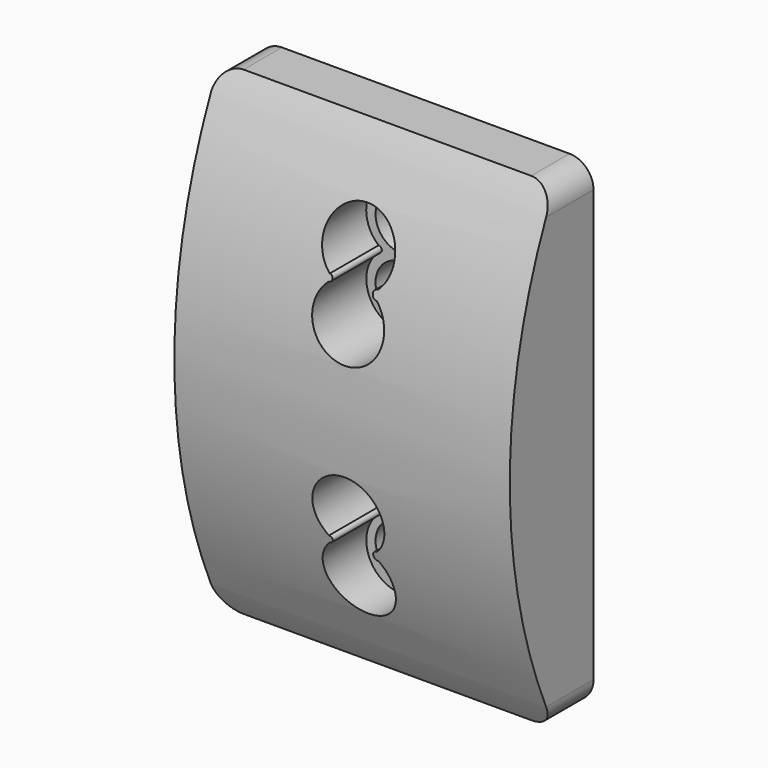
from build123d import *

# Parameters (mm, degrees)
F0_W     = 70
F0_H     = 100
F1_DEPTH = 10
F3_DEPTH = 70
F4_R     = 5
F6_D     = 11
F9_DEPTH = 17.2


with BuildPart() as f1:
    # F0 (on Front) → F1 (new body)
    with BuildSketch(Plane.XZ):
        with Locations((-0.1439042389, 3.7611486804)):
            Rectangle(F0_W, F0_H)
    extrude(amount=F1_DEPTH)

    # F2 (on face) → F3 (join)
    with BuildSketch(Plane.YZ.offset(34.8560957611)):
        with BuildLine():
            Line((-10, -46.2388513196), (-10, 53.7611486804))
            ThreePointArc((-10, 53.7611486804), (-21.8296936781, 3.7611486804), (-10, -46.2388513196))
        make_face()
    extrude(amount=-F3_DEPTH)

    # F4
    f4_edges = [f1.edges().sort_by_distance(p)[0] for p in [
        (34.856096, -5, 53.761149),
        (-35.143904, -5, 53.761149),
        (34.856096, -5, -46.238851),
        (-35.143904, -5, -46.238851),
    ]]
    fillet(f4_edges, radius=F4_R)

    # F6 (through all)
    with Locations(Plane(origin=(0, 0, 0), x_dir=(1, 0, 0), z_dir=(0, 1, 0))):
        with Locations((0, -33.7616663978), (0, -21.2616663978), (0, 13.7393690371), (0, 26.2393690371)):
            Hole(F6_D / 2)

    # F8 (on offset) → F9 (cut)
    with BuildSketch(Plane.XZ.offset(23.6)):
        with BuildLine():
            ThreePointArc((5.1695684419, 28.491923844), (-0.1945076363, 41.3073727185), (-4.8824502155, 28.2294433564))
            ThreePointArc((-4.8824502155, 28.2294433564), (-4.1963299736, 27.5433231145), (-4.8824502155, 26.8572028726))
            ThreePointArc((-4.8824502155, 26.8572028726), (-0.17230498, 13.7974067448), (5.2084099632, 26.5955179234))
            ThreePointArc((5.2084099632, 26.5955179234), (4.2211666178, 27.5238982808), (5.1695684419, 28.491923844))
        make_face()
        with BuildLine():
            ThreePointArc((5.1695684419, -19.5465231666), (-0.1945076363, -6.7310742921), (-4.8824502155, -19.8090036542))
            ThreePointArc((-4.8824502155, -19.8090036542), (-4.1963299736, -20.4951238961), (-4.8824502155, -21.181244138))
            ThreePointArc((-4.8824502155, -21.181244138), (-0.17230498, -34.2410402658), (5.2084099632, -21.4429290872))
            ThreePointArc((5.2084099632, -21.4429290872), (4.2211666178, -20.5145487298), (5.1695684419, -19.5465231666))
        make_face()
    extrude(amount=-F9_DEPTH, mode=Mode.SUBTRACT)


solid = f1.part
